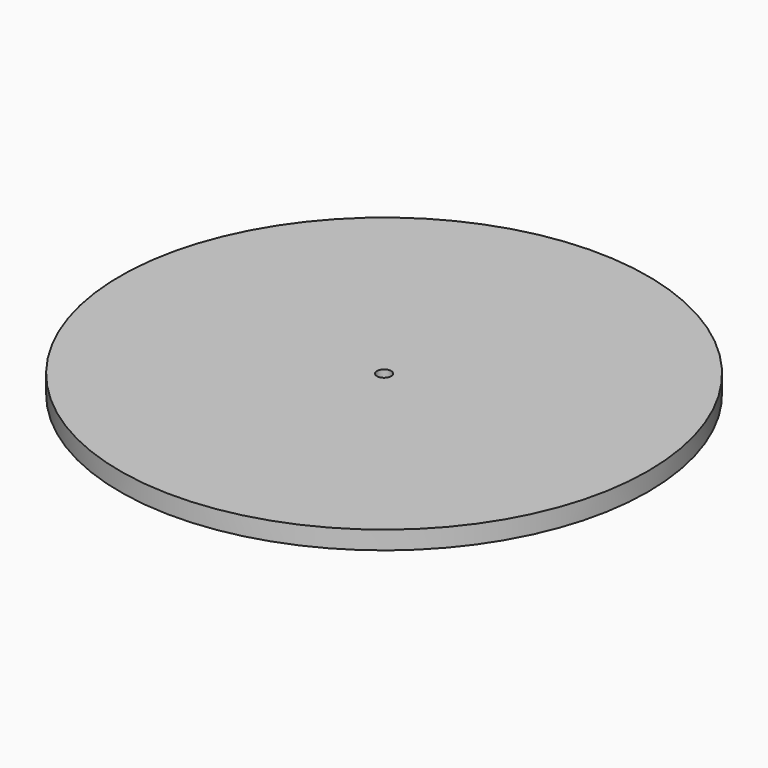
from build123d import *

# Parameters (mm, degrees)
SKETCH_R     = 260
PAD_DEPTH    = 18
SKETCH001_R  = 7
POCKET_DEPTH = 18.001


with BuildPart() as part:
    # Sketch → Pad (new body)
    with BuildSketch(Plane.XY):
        Circle(SKETCH_R)
    extrude(amount=PAD_DEPTH)

    # Sketch001 → Pocket (cut, through all)
    with BuildSketch(Plane.XY):
        Circle(SKETCH001_R)
    extrude(amount=POCKET_DEPTH, mode=Mode.SUBTRACT)


solid = part.part
